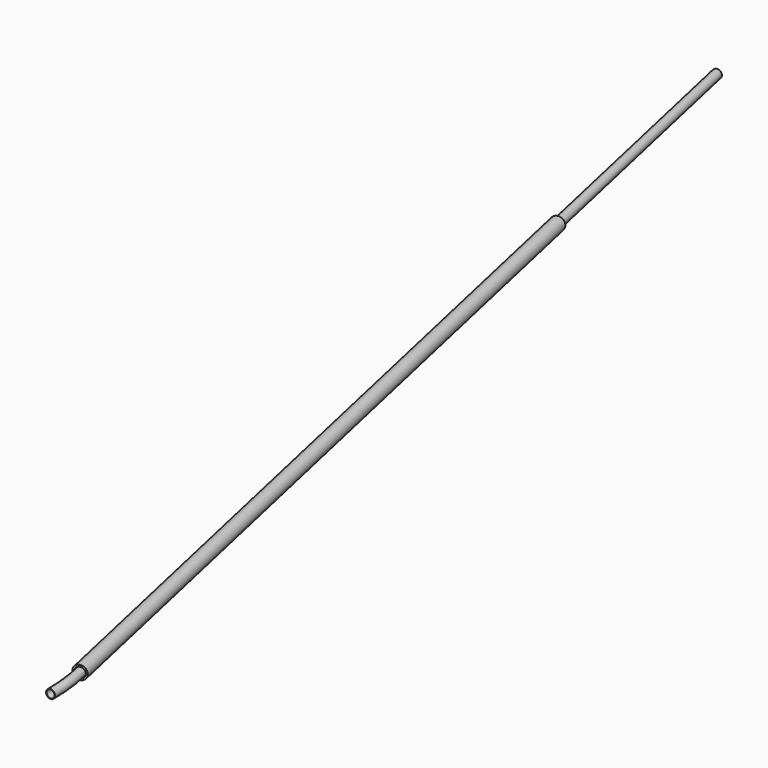
from build123d import *

# Parameters (mm, degrees)
F2_R      = 0.795
F2_R_2    = 0.7
F6_R      = 1.2
F6_R_2    = 0.9
F7_DEPTH  = 150
F11_ANGLE = 12.5


with BuildPart() as f4:
    # F4: sweep along a path in F3
    with BuildLine(Plane.XY) as f4_path:
        Line((0, 0), (0, -200))
        ThreePointArc((0, -200), (-0.2078175018, -203.8084166015), (-0.8288021149, -207.5716071674))
    # F2 (on Front) → F4 (sweep)
    with BuildSketch(Plane.XZ):
        Circle(F2_R)
        Circle(F2_R_2, mode=Mode.SUBTRACT)
    sweep(path=f4_path.line)


with BuildPart() as f7:
    # F6 (on offset) → F7 (new body)
    with BuildSketch(Plane(origin=(0, -50, 0), x_dir=(-1, 0, 0), z_dir=(0, 1, 0))):
        Circle(F6_R)
        Circle(F6_R_2, mode=Mode.SUBTRACT)
    extrude(amount=-F7_DEPTH)


with BuildPart() as f7_1:
    # F10: moved
    add(f7.part.moved(Location((0, 4.7, 0))))


with BuildPart() as f4_1:
    # F10: moved
    add(f4.part.moved(Location((0, 4.7, 0))))


with BuildPart() as f7_2:
    # F11: moved
    add(f7_1.part.rotate(Axis((0, -100, 4.532628227), (0, 0, 1)), F11_ANGLE))


with BuildPart() as f4_2:
    # F11: moved
    add(f4_1.part.rotate(Axis((0, -100, 4.532628227), (0, 0, 1)), F11_ANGLE))


solid = Compound([f7_2.part, f4_2.part])
